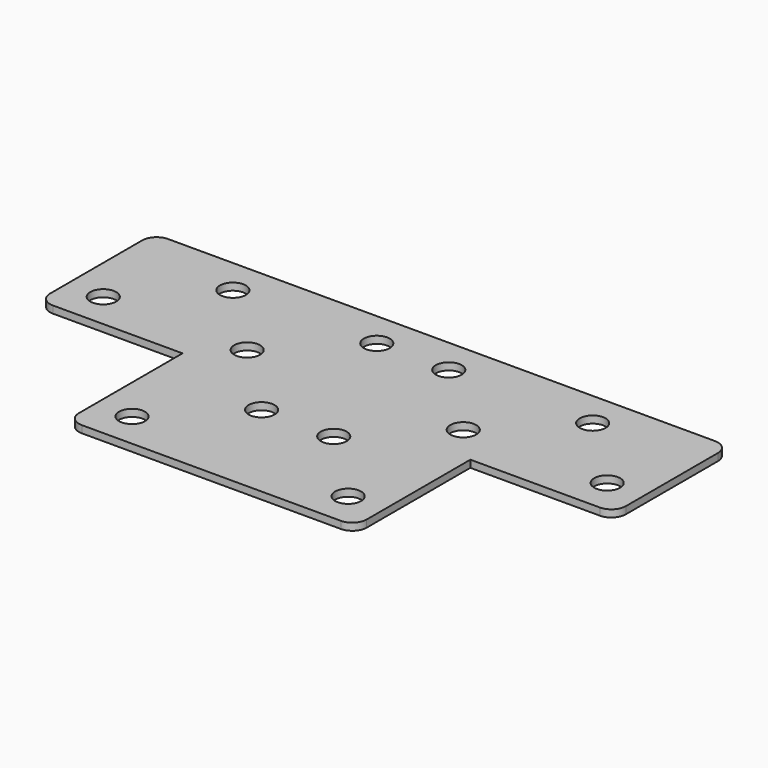
from build123d import *

# Parameters (mm, degrees)
F1_DEPTH = 5
F2_R     = 9
F3_DEPTH = 25
F4_R     = 10


with BuildPart() as f1:
    # F0 (on Top) → F1 (new body)
    with BuildSketch(Plane.XY):
        Polygon((200, 0), (0, 0), (-200, 0), (-200, -100), (-100, -100), (-100, -200), (0, -200), (100, -200), (100, -100), (200, -100), align=None)
    extrude(amount=F1_DEPTH)

    # F2 (on face) → F3 (cut)
    with BuildSketch(Plane.XY.offset(5)):
        with Locations((175.068656, -74.99178)):
            Circle(F2_R)
        with Locations((125, -25)):
            Circle(F2_R)
        with Locations((75.068656, -74.99178)):
            Circle(F2_R)
        with Locations((75.068656, -174.99178)):
            Circle(F2_R)
        with Locations((25.068656, -124.99178)):
            Circle(F2_R)
        with Locations((25, -25)):
            Circle(F2_R)
        with Locations((-75.068656, -174.99178)):
            Circle(F2_R)
        with Locations((-25, -25)):
            Circle(F2_R)
        with Locations((-175.068656, -74.99178)):
            Circle(F2_R)
        with Locations((-125, -25)):
            Circle(F2_R)
        with Locations((-75.068656, -74.99178)):
            Circle(F2_R)
        with Locations((-25.068656, -124.99178)):
            Circle(F2_R)
    extrude(amount=-F3_DEPTH, mode=Mode.SUBTRACT)

    # F4
    f4_edges = [f1.edges().sort_by_distance(p)[0] for p in [
        (-100, -200, 2.5),
        (100, -200, 2.5),
        (200, -100, 2.5),
        (200, 0, 2.5),
        (-200, -100, 2.5),
        (-200, 0, 2.5),
    ]]
    fillet(f4_edges, radius=F4_R)


solid = f1.part
